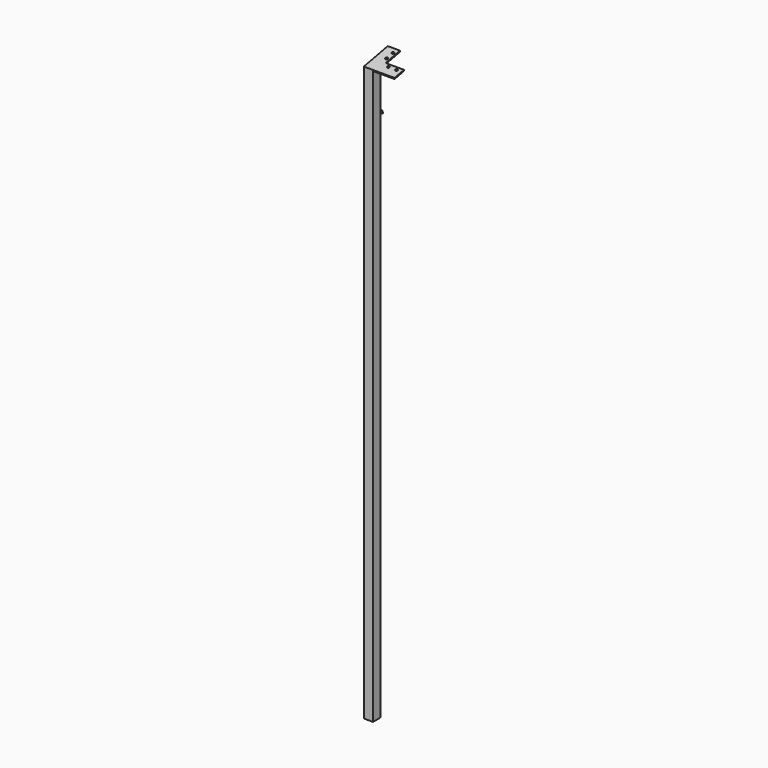
from build123d import *

# Parameters (mm, degrees)
F0_W      = 45
F0_H      = 45
F1_DEPTH  = 2795
F3_W      = 90
F3_H      = 60
F4_DEPTH  = 5
F6_DEPTH  = 45
F8_W      = 2.7798460424
F8_H      = 5.7082939148
F9_DEPTH  = 150
F10_R     = 6
F11_DEPTH = 5
F15_DEPTH = 30


with BuildPart() as f1:
    # F0 (on Top) → F1 (new body)
    with BuildSketch(Plane.XY):
        Rectangle(F0_W, F0_H)
    extrude(amount=F1_DEPTH)


with BuildPart() as f4:
    # F3 (on face) → F4 (new body)
    with BuildSketch(Plane(origin=(0, -524.3318959349, 2697.453760933), x_dir=(1, 0, 0), z_dir=(0, -0.1908089954, 0.9816271834))):
        Polygon((-22.5, 661.2245304499), (-22.5, 511.2245304499), (37.5, 511.2245304499), (37.5, 571.2245304499), (37.5, 661.2245304499), align=None)
        with Locations((82.5, 541.2245304499)):
            Rectangle(F3_W, F3_H)
    extrude(amount=F4_DEPTH)


with BuildPart() as f6:
    # F5 (on face) → F6 (new body)
    with BuildSketch(Plane.YZ.offset(22.5)):
        Polygon((-22.5, 2795), (22.5, 2795), (22.5, 2803.7471139112), align=None)
    extrude(amount=-F6_DEPTH)


with BuildPart() as f1_1:
    add(f1.part)

    # F7: union F6, F4
    add(f6.part)
    add(f4.part)

    # F8 (on face) → F9 (cut, through all)
    with BuildSketch(Plane(origin=(-22.5, 0, 0), x_dir=(0, -1, 0), z_dir=(-1, 0, 0))):
        with Locations((23.8899230212, 2797.8541469574)):
            Rectangle(F8_W, F8_H)
    extrude(amount=-F9_DEPTH, mode=Mode.SUBTRACT)

    # F10 (on face) → F11 (cut, through all)
    with BuildSketch(Plane(origin=(0, -525.2859409117, 2702.3618968503), x_dir=(1, 0, 0), z_dir=(0, -0.1908089954, 0.9816271834))):
        with BuildLine():
            ThreePointArc((108.5, 556.2245304499), (106.7426406871, 560.467171137), (102.5, 562.2245304499))
            Line((102.5, 562.2245304499), (102.5, 556.2245304499))
            Line((102.5, 556.2245304499), (96.5, 556.2245304499))
            ThreePointArc((96.5, 556.2245304499), (102.5, 550.2245304499), (108.5, 556.2245304499))
        make_face()
        with Locations((62.5, 556.2245304499)):
            Circle(F10_R)
        with BuildLine():
            Line((102.5, 556.2245304499), (102.5, 562.2245304499))
            ThreePointArc((102.5, 562.2245304499), (98.2573593129, 560.467171137), (96.5, 556.2245304499))
            Line((96.5, 556.2245304499), (102.5, 556.2245304499))
        make_face()
        with BuildLine():
            ThreePointArc((22.5, 630.2245304499), (26.7426406871, 631.9818897628), (28.5, 636.2245304499))
            Line((28.5, 636.2245304499), (22.5, 636.2245304499))
            Line((22.5, 636.2245304499), (22.5, 630.2245304499))
        make_face()
        with BuildLine():
            Line((22.5, 636.2245304499), (28.5, 636.2245304499))
            ThreePointArc((28.5, 636.2245304499), (18.2573593129, 640.467171137), (22.5, 630.2245304499))
            Line((22.5, 630.2245304499), (22.5, 636.2245304499))
        make_face()
        with BuildLine():
            ThreePointArc((28.5, 596.2245304499), (26.7426406871, 600.467171137), (22.5, 602.2245304499))
            ThreePointArc((22.5, 602.2245304499), (18.2573593129, 591.9818897628), (28.5, 596.2245304499))
        make_face()
    extrude(amount=-F11_DEPTH, mode=Mode.SUBTRACT)

    # F13 (on offset) → F15 (join)
    with BuildSketch(Plane.XY.offset(2545)):
        with BuildLine():
            ThreePointArc((-5, 27.5), (-3.5355339059, 23.9644660941), (0, 22.5))
            Line((0, 22.5), (0, 27.5))
            Line((0, 27.5), (-5, 27.5))
        make_face()
        with BuildLine():
            Line((-5, 22.5), (0, 22.5))
            ThreePointArc((0, 22.5), (-3.5355339059, 23.9644660941), (-5, 27.5))
            Line((-5, 27.5), (-5, 22.5))
        make_face()
        with BuildLine():
            Line((0, 27.5), (0, 22.5))
            ThreePointArc((0, 22.5), (3.5355339059, 23.9644660941), (5, 27.5))
            Line((5, 27.5), (0, 27.5))
        make_face()
        with BuildLine():
            ThreePointArc((5, 27.5), (3.5355339059, 23.9644660941), (0, 22.5))
            Line((0, 22.5), (5, 22.5))
            Line((5, 22.5), (5, 27.5))
        make_face()
        with BuildLine():
            Line((-5, 27.5), (0, 27.5))
            Line((0, 27.5), (5, 27.5))
            ThreePointArc((5, 27.5), (0, 32.5), (-5, 27.5))
        make_face()
    extrude(amount=F15_DEPTH)

    # F17: sweep along a path in F14
    with BuildLine(Plane.YZ) as f17_path:
        ThreePointArc((57.5, 2575), (42.5, 2590), (27.5, 2575))
    # F16 (on face) → F17 (sweep)
    with BuildSketch(Plane.XY.offset(2575)):
        with BuildLine():
            ThreePointArc((0, 22.5), (3.5355339059, 23.9644660941), (5, 27.5))
            ThreePointArc((5, 27.5), (0, 32.5), (-5, 27.5))
            ThreePointArc((-5, 27.5), (-3.5355339059, 23.9644660941), (0, 22.5))
        make_face()
    sweep(path=f17_path.line)


solid = f1_1.part
